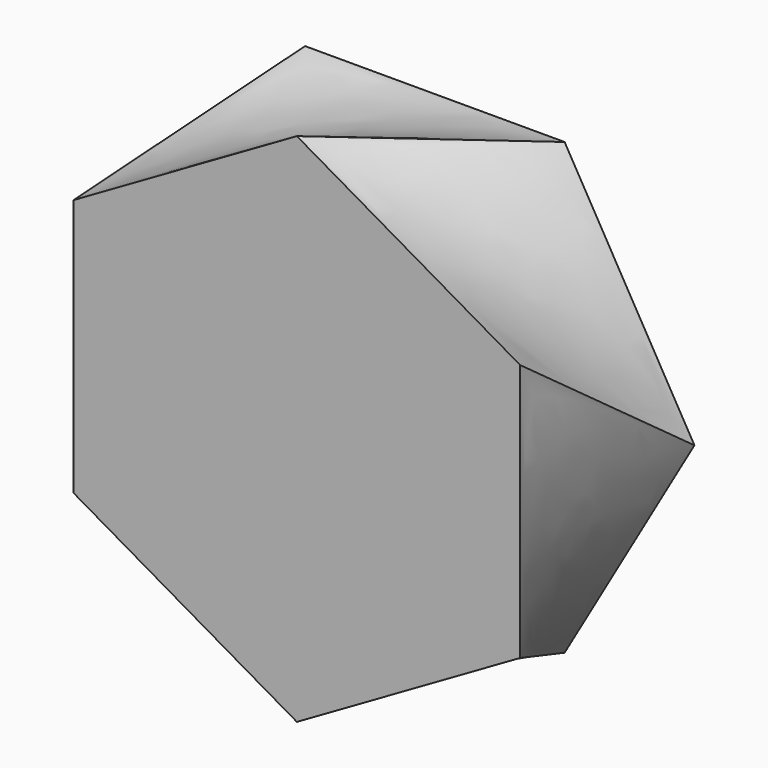
from build123d import *


with BuildPart() as f3:
    # F2 (on offset) → F3 section 0
    with BuildSketch(Plane.XZ.offset(50)):
        Polygon((-64.742263, -37.378963), (0, -74.757926), (64.742263, -37.378963), (64.742263, 37.378963), (0, 74.757926), (-64.742263, 37.378963), align=None)
    # F0 (on Front) → F3 section 1
    with BuildSketch(Plane.XZ):
        Polygon((37.631527, -65.179716), (75.263053, 0), (37.631527, 65.179716), (-37.631527, 65.179716), (-75.263053, 0), (-37.631527, -65.179716), align=None)
    loft()


solid = f3.part
